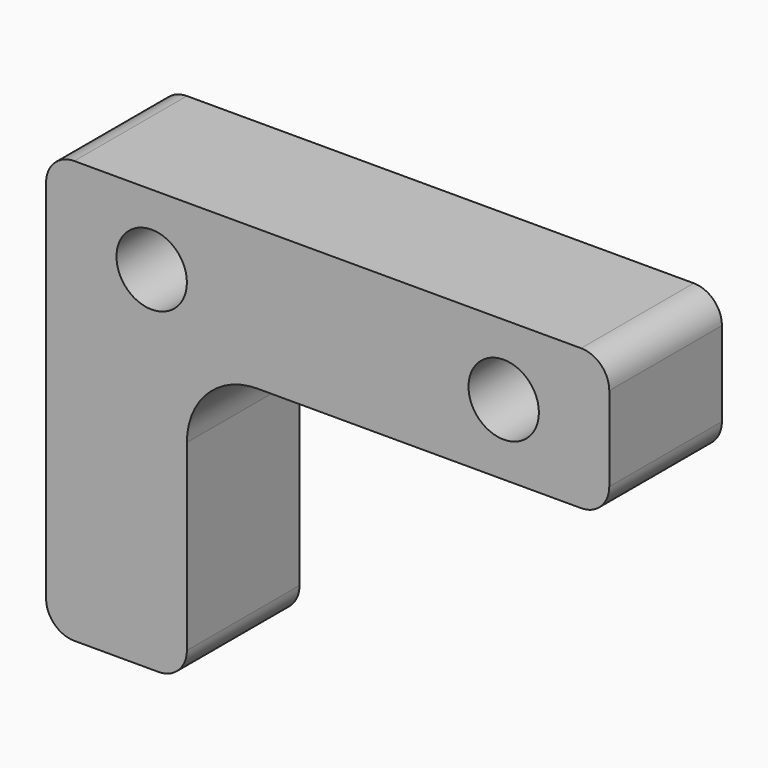
from build123d import *

# Parameters (mm, degrees)
F1_DEPTH = 12.7
F2_R     = 6.35
F3_DEPTH = 25.401
F4_R     = 5.08


with BuildPart() as f1:
    # F0 (on Front) → F1 (new body, symmetric)
    with BuildSketch(Plane.XZ):
        with BuildLine():
            Line((50.8, 25.4), (-50.8, 25.4))
            Line((-50.8, 25.4), (-50.8, -50.8))
            Line((-50.8, -50.8), (-25.4, -50.8))
            Line((-25.4, -50.8), (-25.4, -12.7))
            ThreePointArc((-25.4, -12.7), (-21.680256, -3.719744), (-12.7, 0))
            Line((-12.7, 0), (50.8, 0))
            Line((50.8, 0), (50.8, 25.4))
        make_face()
    extrude(amount=F1_DEPTH, both=True)

    # F2 (on face) → F3 (cut, through all)
    with BuildSketch(Plane.XZ.offset(12.7)):
        with Locations((-31.75, 12.7)):
            Circle(F2_R)
        with Locations((31.75, 12.7)):
            Circle(F2_R)
    extrude(amount=-F3_DEPTH, mode=Mode.SUBTRACT)

    # F4
    f4_edges = [f1.edges().sort_by_distance(p)[0] for p in [
        (50.8, 0, 25.4),
        (50.8, 0, 0),
        (-25.4, 0, -50.8),
        (-50.8, 0, 25.4),
        (-50.8, 0, -50.8),
    ]]
    fillet(f4_edges, radius=F4_R)


solid = f1.part
